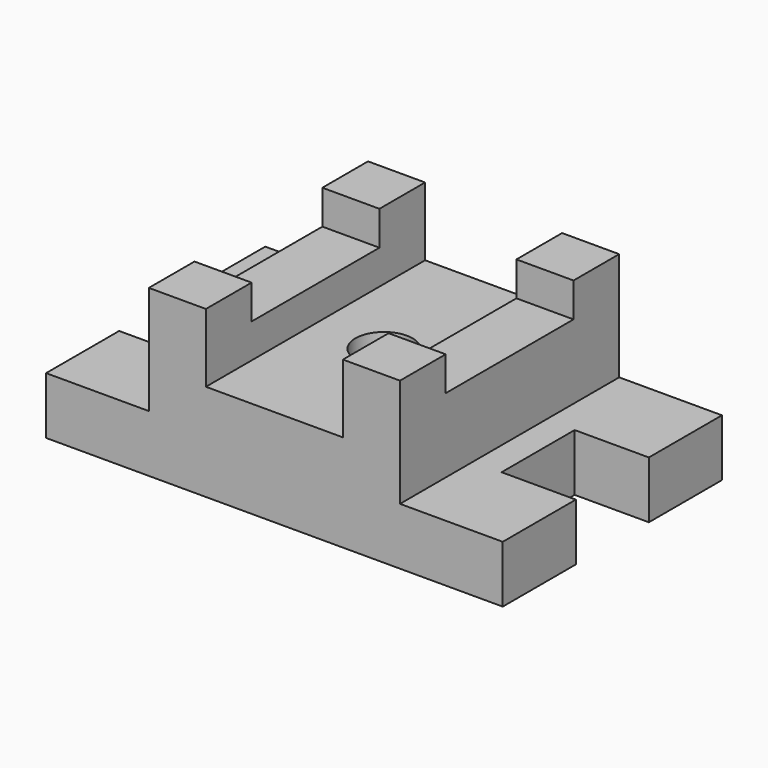
from build123d import *

# Parameters (mm, degrees)
F1_DEPTH = 152.4
F2_R     = 15.875
F3_DEPTH = 53.976
F4_W     = 41.275
F4_H     = 50.8
F5_DEPTH = 31.751
F6_W     = 88.9
F6_H     = 19.05
F7_DEPTH = 196.851


with BuildPart() as f1:
    # F0 (on Front) → F1 (new body)
    with BuildSketch(Plane.XZ):
        Polygon((-127, 31.75), (-127, 0), (127, 0), (127, 31.75), (69.85, 31.75), (69.85, 92.075), (38.1, 92.075), (38.1, 53.975), (-38.1, 53.975), (-38.1, 92.075), (-69.85, 92.075), (-69.85, 31.75), align=None)
    extrude(amount=F1_DEPTH)

    # F2 (on face) → F3 (cut, through all)
    with BuildSketch(Plane.XY.offset(53.975)):
        with Locations((0, -76.2)):
            Circle(F2_R)
    extrude(amount=-F3_DEPTH, mode=Mode.SUBTRACT)

    # F4 (on face) → F5 (cut, through all)
    with BuildSketch(Plane.XY.offset(31.75)):
        with Locations((-106.3625, -76.2)):
            Rectangle(F4_W, F4_H)
        with Locations((106.3625, -76.2)):
            Rectangle(F4_W, F4_H)
    extrude(amount=-F5_DEPTH, mode=Mode.SUBTRACT)

    # F6 (on face) → F7 (cut, through all)
    with BuildSketch(Plane(origin=(-69.85, 0, 0), x_dir=(0, -1, 0), z_dir=(-1, 0, 0))):
        with Locations((76.2, 82.55)):
            Rectangle(F6_W, F6_H)
    extrude(amount=-F7_DEPTH, mode=Mode.SUBTRACT)


solid = f1.part
